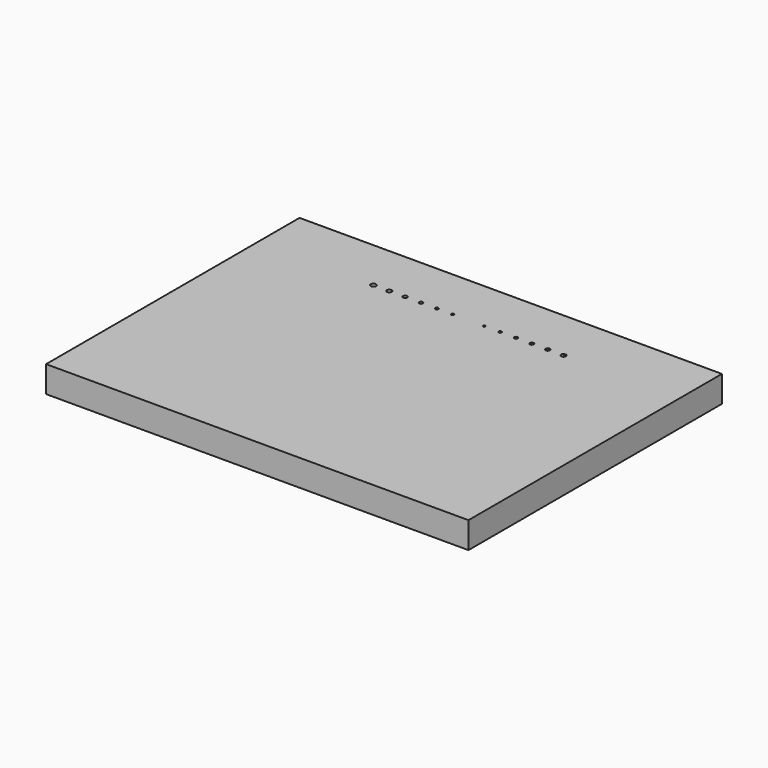
from build123d import *

# Parameters (mm, degrees)
F0_W     = 80
F0_H     = 60
F0_R     = 0.5
F0_R_2   = 0.45
F0_R_3   = 0.4
F0_R_4   = 0.35
F0_R_5   = 0.3
F0_R_6   = 0.25
F1_DEPTH = 5


with BuildPart() as f1:
    # F0 (on Top) → F1 (new body)
    with BuildSketch(Plane.XY):
        Rectangle(F0_W, F0_H)
        with Locations((-18, 20)):
            Circle(F0_R, mode=Mode.SUBTRACT)
        with Locations((-15, 20)):
            Circle(F0_R_2, mode=Mode.SUBTRACT)
        with Locations((-12, 20)):
            Circle(F0_R_3, mode=Mode.SUBTRACT)
        with Locations((-9, 20)):
            Circle(F0_R_4, mode=Mode.SUBTRACT)
        with Locations((-6, 20)):
            Circle(F0_R_5, mode=Mode.SUBTRACT)
        with Locations((-3, 20)):
            Circle(F0_R_6, mode=Mode.SUBTRACT)
        Polygon((2.875, 20.216506), (3.125, 20.216506), (3.25, 20), (3.125, 19.783494), (2.875, 19.783494), (2.75, 20), align=None, mode=Mode.SUBTRACT)
        Polygon((5.85, 20.259808), (6.15, 20.259808), (6.3, 20), (6.15, 19.740192), (5.85, 19.740192), (5.7, 20), align=None, mode=Mode.SUBTRACT)
        Polygon((8.825, 20.303109), (9.175, 20.303109), (9.35, 20), (9.175, 19.696891), (8.825, 19.696891), (8.65, 20), align=None, mode=Mode.SUBTRACT)
        Polygon((11.8, 20.34641), (12.2, 20.34641), (12.4, 20), (12.2, 19.65359), (11.8, 19.65359), (11.6, 20), align=None, mode=Mode.SUBTRACT)
        Polygon((14.775, 20.389711), (15.225, 20.389711), (15.45, 20), (15.225, 19.610289), (14.775, 19.610289), (14.55, 20), align=None, mode=Mode.SUBTRACT)
        Polygon((18.5, 20), (18.25, 19.566987), (17.75, 19.566987), (17.5, 20), (17.75, 20.433013), (18.25, 20.433013), align=None, mode=Mode.SUBTRACT)
    extrude(amount=F1_DEPTH)


solid = f1.part
